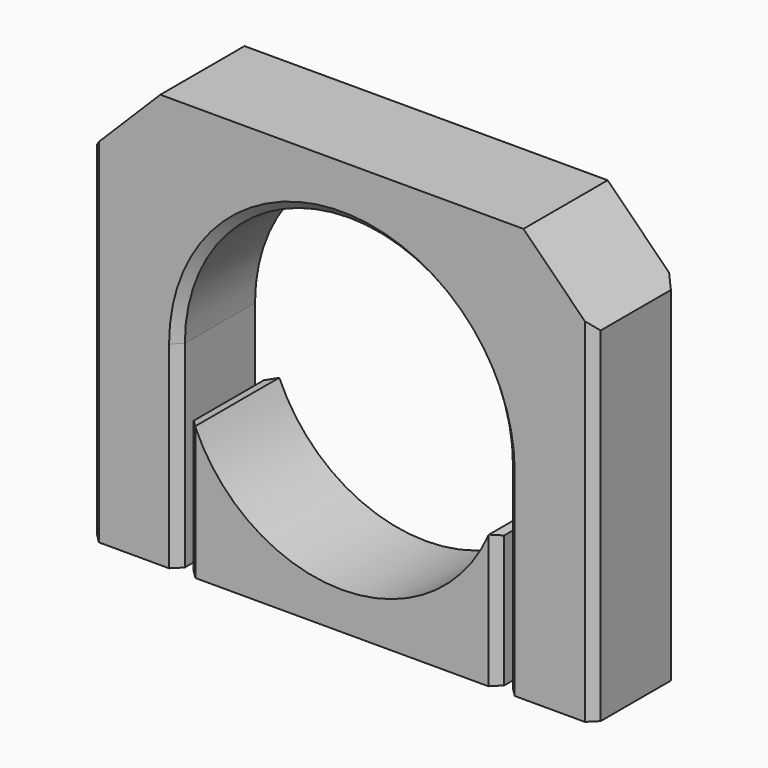
from build123d import *

# Parameters (mm, degrees)
PAD_DEPTH       = 12
SKETCH001_R     = 2.55
POCKET_DEPTH    = 6.4
SKETCH002_R     = 1.7
POCKET001_DEPTH = 10
CHAMFER_SIZE    = 0.6
CHAMFER001_SIZE = 8
CHAMFER002_SIZE = 1
CHAMFER003_SIZE = 1
PAD001_DEPTH    = 12
CHAMFER004_SIZE = 3
CHAMFER005_SIZE = 1


with BuildPart() as clamp:
    # Sketch → Pad (new body)
    with BuildSketch(Plane.XZ):
        with BuildLine():
            ThreePointArc((18.7, 0), (0, 18.7), (-18.7, 0))
            Line((-18.7, 0), (-18.7, -22.5))
            Line((-18.7, -22.5), (-28.7, -22.5))
            Line((-28.7, -22.5), (-28.7, 24.7))
            Line((-28.7, 24.7), (28.7, 24.7))
            Line((28.7, 24.7), (28.7, -22.5))
            Line((28.7, -22.5), (18.7, -22.5))
            Line((18.7, -22.5), (18.7, 0))
        make_face()
    extrude(amount=PAD_DEPTH)

    # Sketch001 (on Face3 of Pad) → Pocket (cut)
    with BuildSketch(Plane(origin=(0, 0, -22.5), x_dir=(1, 0, 0), z_dir=(0, 0, -1))):
        with Locations((-23.7, 6)):
            Circle(SKETCH001_R)
    pocket = extrude(amount=-POCKET_DEPTH, mode=Mode.SUBTRACT)

    # Mirrored: Pocket across Sketch001 V_Axis
    add(pocket.mirror(Plane(origin=(0, 0, -22.5), x_dir=(0, 0, -1), z_dir=(1, 0, 0))), mode=Mode.SUBTRACT)

    # Sketch002 (on Face14 of Mirrored) → Pocket001 (cut)
    with BuildSketch(Plane(origin=(0, 0, -16.1), x_dir=(1, 0, 0), z_dir=(0, 0, -1))):
        with Locations((-23.7, 6)):
            Circle(SKETCH002_R)
    pocket001 = extrude(amount=-POCKET001_DEPTH, mode=Mode.SUBTRACT)

    # Mirrored001: Pocket001 across Sketch002 V_Axis
    add(pocket001.mirror(Plane(origin=(0, 0, -16.1), x_dir=(0, 0, -1), z_dir=(1, 0, 0))), mode=Mode.SUBTRACT)

    # Chamfer
    chamfer_edges = [clamp.edges().sort_by_distance(p)[0] for p in [
        (-26.25, -6, -22.5),
        (26.25, -6, -22.5),
    ]]
    chamfer(chamfer_edges, length=CHAMFER_SIZE)

    # Chamfer001
    chamfer001_edges = [clamp.edges().sort_by_distance(p)[0] for p in [
        (-28.7, -6, 24.7),
        (28.7, -6, 24.7),
    ]]
    chamfer(chamfer001_edges, length=CHAMFER001_SIZE)

    # Chamfer002
    chamfer002_edges = [clamp.edges().sort_by_distance(p)[0] for p in [
        (-28.7, 0, -2.9),
        (-28.7, -12, -2.9),
        (28.7, 0, -2.9),
        (28.7, -12, -2.9),
    ]]
    chamfer(chamfer002_edges, length=CHAMFER002_SIZE)

    # Chamfer003
    chamfer003_edges = [clamp.edges().sort_by_distance(p)[0] for p in [
        (-18.7, 0, -11.25),
        (0, 0, 18.7),
        (18.7, 0, -11.25),
        (18.7, -12, -11.25),
        (0, -12, 18.7),
        (-18.7, -12, -11.25),
    ]]
    chamfer(chamfer003_edges, length=CHAMFER003_SIZE)


with BuildPart() as base:
    # Sketch003 → Pad001 (new body)
    with BuildSketch(Plane.XZ):
        with BuildLine():
            ThreePointArc((-17.7, -4.446628), (0, -18.25), (17.7, -4.446628))
            Line((17.7, -22.5), (17.7, -4.446628))
            Line((-17.7, -22.5), (17.7, -22.5))
            Line((-17.7, -4.446628), (-17.7, -22.5))
        make_face()
    extrude(amount=PAD001_DEPTH)

    # Chamfer004
    chamfer004_edges = [base.edges().sort_by_distance(p)[0] for p in [
        (-17.7, -6, -4.446628),
        (17.7, -6, -4.446628),
    ]]
    chamfer(chamfer004_edges, length=CHAMFER004_SIZE)

    # Chamfer005
    chamfer005_edges = [base.edges().sort_by_distance(p)[0] for p in [
        (-17.7, -12, -14.973314),
        (-17.7, 0, -14.973314),
        (17.7, -12, -14.973314),
        (17.7, 0, -14.973314),
    ]]
    chamfer(chamfer005_edges, length=CHAMFER005_SIZE)


solid = Compound([clamp.part, base.part])
